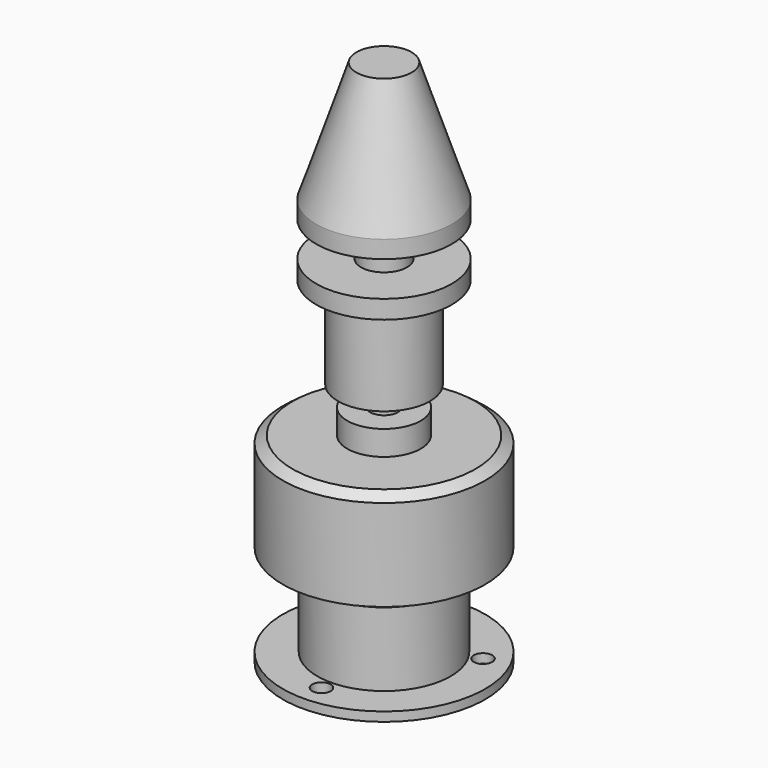
from build123d import *

# Parameters (mm, degrees)
F0_W     = 2.5
F0_H     = 3.8
F0_W_2   = 1.5
F0_H_2   = 2.2
F0_W_3   = 2.794924
F0_H_3   = 2
F2_R     = 1
F3_DEPTH = 2


with BuildPart() as f1:
    # F0 (on Right) → F1 (revolve)
    with BuildSketch(Plane.YZ):
        Polygon((7.366817, 23.351668), (3, 36.451668), (0, 36.451668), (0, 23.351668), align=None)
        Polygon((7.366817, 21.451668), (7.366817, 23.351668), (0, 23.351668), (0, 21.451668), (2.5, 21.451668), align=None)
        with Locations((1.25, 19.551668)):
            Rectangle(F0_W, F0_H)
        Polygon((2.5, 17.651668), (0, 17.651668), (0, 15.651668), (5, 15.651668), (7.366817, 15.651668), (7.366817, 17.651668), align=None)
        Polygon((5, 15.651668), (0, 15.651668), (0, 5.651668), (1.5, 5.651668), (5, 5.651668), align=None)
        with Locations((0.75, 4.551668)):
            Rectangle(F0_W_2, F0_H_2)
        Polygon((1.5, 3.451668), (0, 3.451668), (0, 0.773112), (4, 0.773112), (4, 3.451668), align=None)
        Polygon((4, 0.773112), (0, 0.773112), (0, -9.944718), (2.794924, -9.944718), (11, -9.944718), (11, 0), (9.956954, 0.773112), align=None)
        with Locations((1.397462, -10.944718)):
            Rectangle(F0_W_3, F0_H_3)
        Polygon((2.794924, -11.944718), (0, -11.944718), (0, -19.944718), (7.25, -19.944718), (7.25, -11.944718), align=None)
        Polygon((7.25, -19.944718), (0, -19.944718), (0, -20.944718), (11, -20.944718), (11, -19.944718), align=None)
    revolve(axis=Axis((0, 0, 7.753475), (0, 0, -1)))

    # F2 (on face) → F3 (cut)
    with BuildSketch(Plane(origin=(0, 0, -20.944718), x_dir=(1, 0, 0), z_dir=(0, 0, -1))):
        with Locations((0, 8.5)):
            Circle(F2_R)
        with Locations((-7.361216, -4.25)):
            Circle(F2_R)
        with Locations((7.361216, -4.25)):
            Circle(F2_R)
    extrude(amount=-F3_DEPTH, mode=Mode.SUBTRACT)


solid = f1.part
